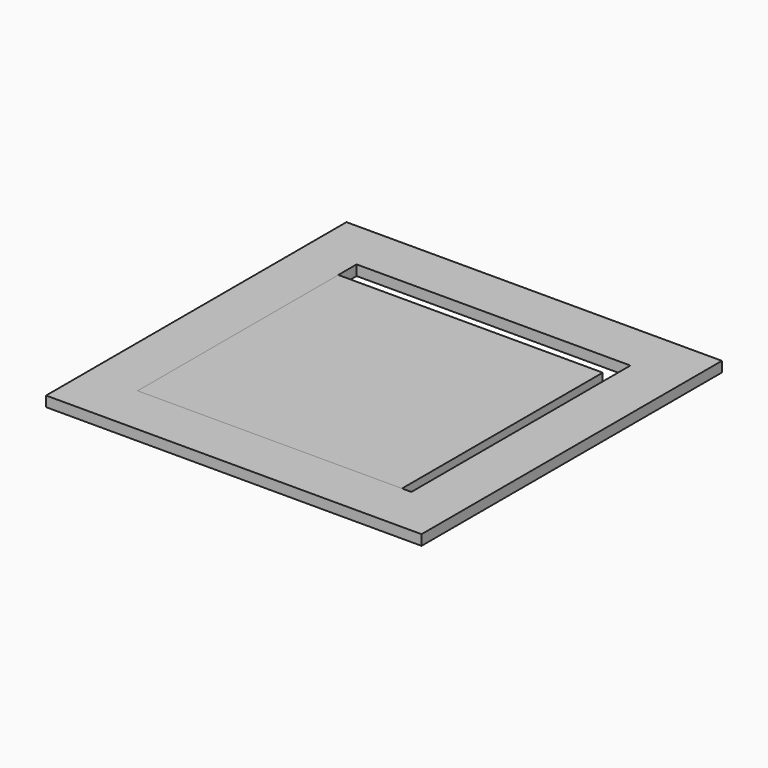
from build123d import *

# Parameters (mm, degrees)
F0_W     = 927.1
F0_H     = 927.1
F0_W_2   = 676.021
F0_H_2   = 676.021
F1_DEPTH = 25.4
F2_W     = 652.907
F2_H     = 619.506
F3_DEPTH = 25.4


with BuildPart() as f1:
    # F0 (on Top) → F1 (new body)
    with BuildSketch(Plane.XY):
        Rectangle(F0_W, F0_H)
        Rectangle(F0_W_2, F0_H_2, mode=Mode.SUBTRACT)
    extrude(amount=F1_DEPTH)


with BuildPart() as f3:
    # F2 (on Top) → F3 (new body)
    with BuildSketch(Plane.XY):
        with Locations((-11.557, -28.2575)):
            Rectangle(F2_W, F2_H)
    extrude(amount=F3_DEPTH)


solid = Compound([f1.part, f3.part])
